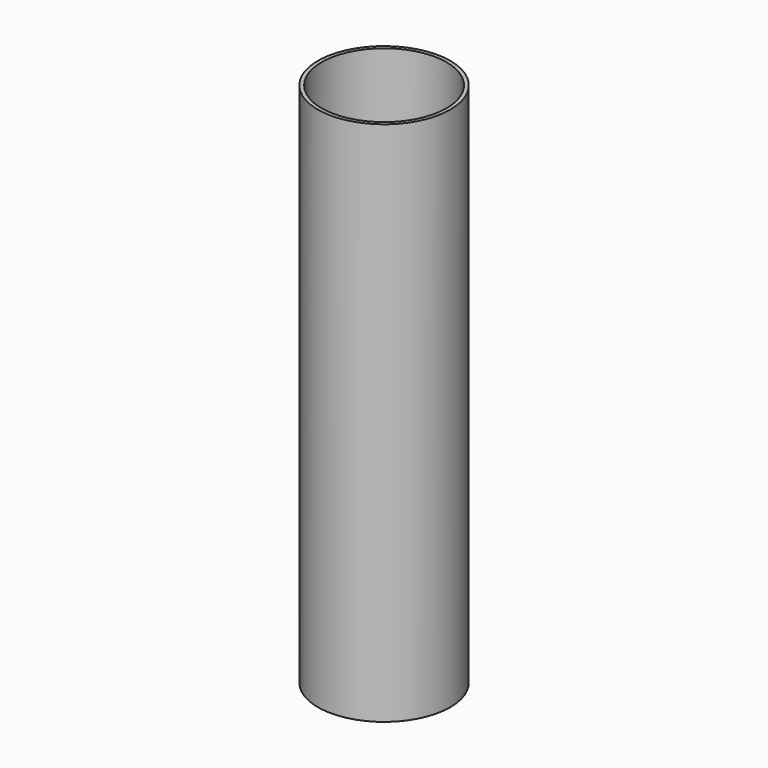
from build123d import *

# Parameters (mm, degrees)
F0_R     = 44.746468
F1_DEPTH = 177.8
F2_T     = -2.54


with BuildPart() as f1:
    # F0 (on Top) → F1 (new body)
    with BuildSketch(Plane.XY):
        Circle(F0_R)
    extrude(amount=F1_DEPTH)

    # F2
    f2_openings = [f1.faces().sort_by_distance(p)[0] for p in [
        (0, 0, 177.8),
    ]]
    offset(amount=F2_T, openings=f2_openings)

    # F3: F1 across plane


with BuildPart() as f1_1:
    add(f1.part)
    add(f1.part.mirror(Plane.XY))


solid = f1_1.part
